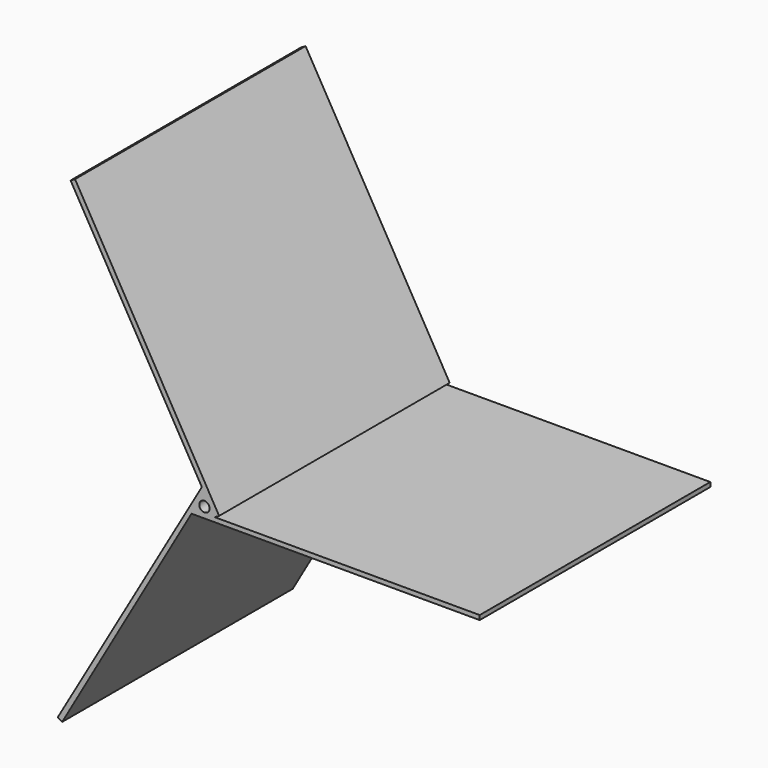
from build123d import *

# Parameters (mm, degrees)
F1_DEPTH = 177.8
F2_R     = 3.175
F3_DEPTH = 177.8


with BuildPart() as f1:
    # F0 (on Front) → F1 (new body)
    with BuildSketch(Plane.XZ):
        Polygon((-6.35, -3.666174), (0, 7.332348), (-1.5875, 10.081979), (-90.4875, -143.897338), (-87.737869, -145.484838), (-7.930342, -6.419925), align=None)
        Polygon((-1.5875, 10.081979), (0, 7.332348), (6.35, -3.666174), (9.099631, -2.078674), (-79.800369, 151.900643), (-82.55, 150.313143), align=None)
        Polygon((169.869658, -3.666174), (6.35, -3.666174), (-6.35, -3.666174), (-7.930342, -6.419925), (169.869658, -6.419925), align=None)
        Polygon((6.35, -3.666174), (0, 7.332348), (-6.35, -3.666174), align=None)
    extrude(amount=F1_DEPTH)

    # F2 (on face) → F3 (cut)
    with BuildSketch(Plane.XZ.offset(177.8)):
        Circle(F2_R)
    extrude(amount=-F3_DEPTH, mode=Mode.SUBTRACT)


solid = f1.part
